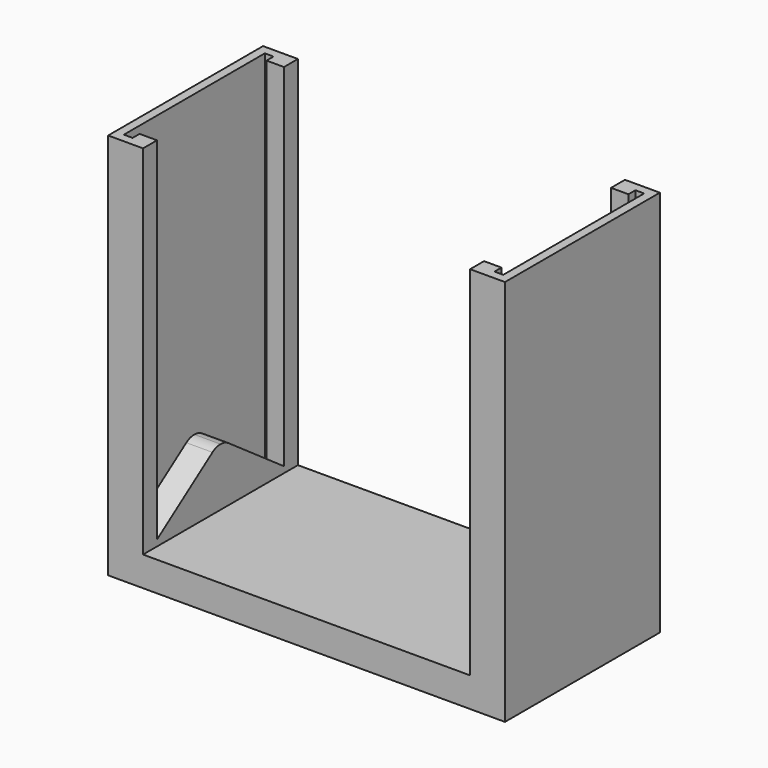
from build123d import *

# Parameters (mm, degrees)
F0_W     = 115.57
F0_H     = 56.388
F1_DEPTH = 8.636
F3_DEPTH = 104.14
F5_DEPTH = 7.62
F7_DEPTH = 7.62


with BuildPart() as f1:
    # F0 (on Top) → F1 (new body)
    with BuildSketch(Plane.XY):
        with Locations((-57.785, -28.194)):
            Rectangle(F0_W, F0_H)
    extrude(amount=F1_DEPTH)

    # F2 (on face) → F3 (join)
    with BuildSketch(Plane.XY.offset(8.636)):
        Polygon((0, -56.388), (0, -28.194), (0, 0), (-10.16, 0), (-10.16, -5.08), (-5.08, -5.08), (-5.08, -2.54), (-2.54, -2.54), (-2.54, -28.194), (-2.54, -53.848), (-5.08, -53.848), (-5.08, -51.308), (-10.16, -51.308), (-10.16, -56.388), align=None)
        Polygon((-105.41, -5.08), (-105.41, 0), (-115.57, 0), (-115.57, -28.194), (-115.57, -56.388), (-105.41, -56.388), (-105.41, -51.308), (-110.49, -51.308), (-110.49, -53.848), (-113.03, -53.848), (-113.03, -28.194), (-113.03, -2.54), (-110.49, -2.54), (-110.49, -5.08), align=None)
    extrude(amount=F3_DEPTH)

    # F4 (on face) → F5 (join)
    with BuildSketch(Plane.YZ.offset(-113.03)):
        with BuildLine():
            Line((-53.848, 8.636), (-28.194, 8.636))
            Line((-28.194, 8.636), (-2.54, 8.636))
            Line((-2.54, 8.636), (-25.280232, 24.558882))
            ThreePointArc((-25.280232, 24.558882), (-26.666415, 25.242471), (-28.194, 25.477589))
            ThreePointArc((-28.194, 25.477589), (-29.721585, 25.242471), (-31.107768, 24.558882))
            Line((-31.107768, 24.558882), (-53.848, 8.636))
        make_face()
    extrude(amount=F5_DEPTH)

    # F6 (on face) → F7 (join)
    with BuildSketch(Plane(origin=(-2.54, 0, 0), x_dir=(0, -1, 0), z_dir=(-1, 0, 0))):
        with BuildLine():
            Line((2.54, 8.636), (28.194, 8.636))
            Line((28.194, 8.636), (53.848, 8.636))
            Line((53.848, 8.636), (31.107768, 24.558882))
            ThreePointArc((31.107768, 24.558882), (29.721585, 25.242471), (28.194, 25.477589))
            ThreePointArc((28.194, 25.477589), (26.666415, 25.242471), (25.280232, 24.558882))
            Line((25.280232, 24.558882), (2.54, 8.636))
        make_face()
    extrude(amount=F7_DEPTH)


solid = f1.part
